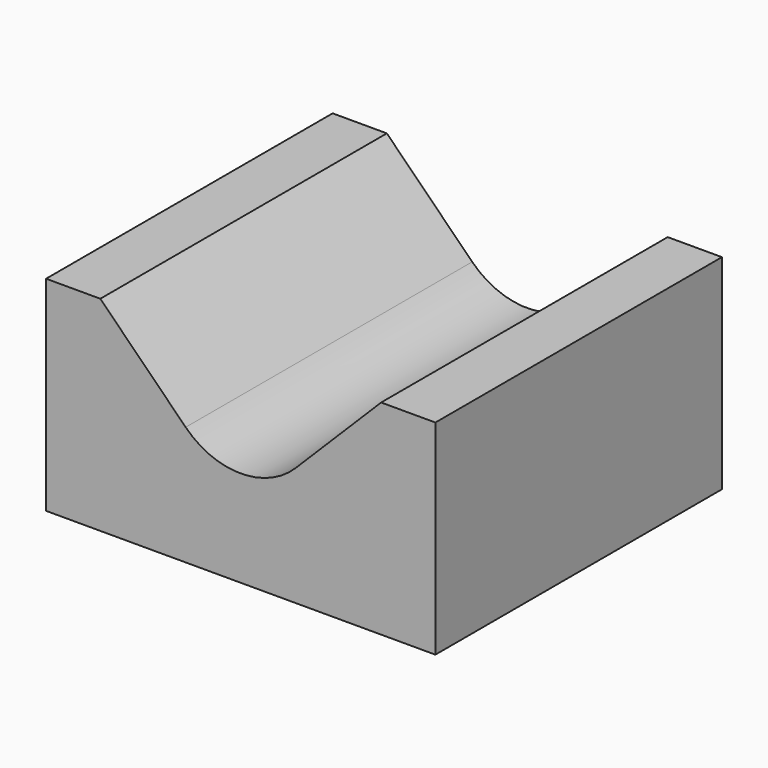
from build123d import *

# Parameters (mm, degrees)
F1_DEPTH = 4.6
F2_R     = 2


with BuildPart() as f1:
    # F0 (on Front) → F1 (new body, symmetric)
    with BuildSketch(Plane.XZ):
        Polygon((-43.125954, -18.449846), (-43.125954, -23.699846), (-33.125954, -23.699846), (-33.125954, -18.449846), (-34.519099, -18.449846), (-35.297526, -19.228273), (-38.125954, -22.0567), (-40.954381, -19.228273), (-41.732808, -18.449846), align=None)
    extrude(amount=F1_DEPTH, both=True)

    # F2
    f2_edges = [f1.edges().sort_by_distance(p)[0] for p in [
        (-38.125954, 0, -22.0567),
    ]]
    fillet(f2_edges, radius=F2_R)


solid = f1.part
